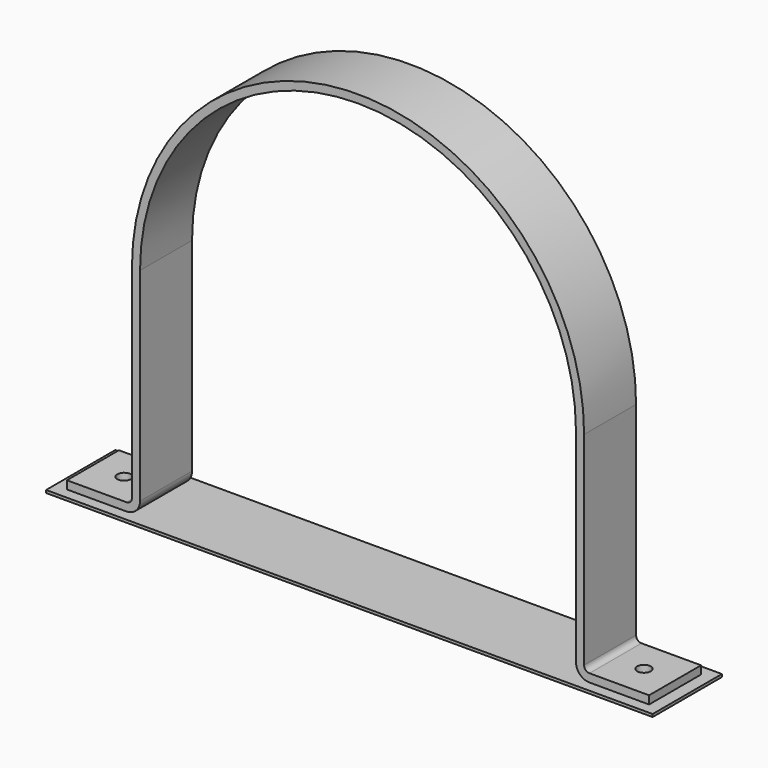
from build123d import *

# Parameters (mm, degrees)
F1_DEPTH = 38.1
F2_R     = 6.35
F3_R     = 15.875
F4_R     = 7.9375
F5_DEPTH = 25.4
F6_W     = 711.2
F6_H     = 101.6
F6_R     = 7.9375
F7_DEPTH = 3.175


with BuildPart() as f1:
    # F0 (on Front) → F1 (new body, symmetric)
    with BuildSketch(Plane.XZ):
        with BuildLine():
            Line((255.5875, -254), (341.3125, -254))
            Line((341.3125, -254), (341.3125, -244.475))
            Line((341.3125, -244.475), (265.1125, -244.475))
            Line((265.1125, -244.475), (265.1125, 0))
            ThreePointArc((265.1125, 0), (0, 265.1125), (-265.1125, 0))
            Line((-265.1125, 0), (-265.1125, -244.475))
            Line((-265.1125, -244.475), (-341.3125, -244.475))
            Line((-341.3125, -244.475), (-341.3125, -254))
            Line((-341.3125, -254), (-255.5875, -254))
            Line((-255.5875, -254), (-255.5875, 0))
            ThreePointArc((-255.5875, 0), (0, 255.5875), (255.5875, 0))
            Line((255.5875, 0), (255.5875, -254))
        make_face()
    extrude(amount=F1_DEPTH, both=True)

    # F2
    f2_edges = [f1.edges().sort_by_distance(p)[0] for p in [
        (-265.1125, 0, -244.475),
        (265.1125, 0, -244.475),
    ]]
    fillet(f2_edges, radius=F2_R)

    # F3
    f3_edges = [f1.edges().sort_by_distance(p)[0] for p in [
        (-255.5875, 0, -254),
        (255.5875, 0, -254),
    ]]
    fillet(f3_edges, radius=F3_R)

    # F4 (on face) → F5 (cut)
    with BuildSketch(Plane(origin=(0, 0, -254), x_dir=(1, 0, 0), z_dir=(0, 0, -1))):
        with Locations((-304.8, 0)):
            Circle(F4_R)
        with Locations((304.8, 0)):
            Circle(F4_R)
    extrude(amount=-F5_DEPTH, mode=Mode.SUBTRACT)

    # F6 (on face) → F7 (join)
    with BuildSketch(Plane(origin=(0, 0, -254), x_dir=(1, 0, 0), z_dir=(0, 0, -1))):
        Rectangle(F6_W, F6_H)
        with Locations((-304.8, 0)):
            Circle(F6_R, mode=Mode.SUBTRACT)
        with Locations((304.8, 0)):
            Circle(F6_R, mode=Mode.SUBTRACT)
    extrude(amount=F7_DEPTH)


solid = f1.part
